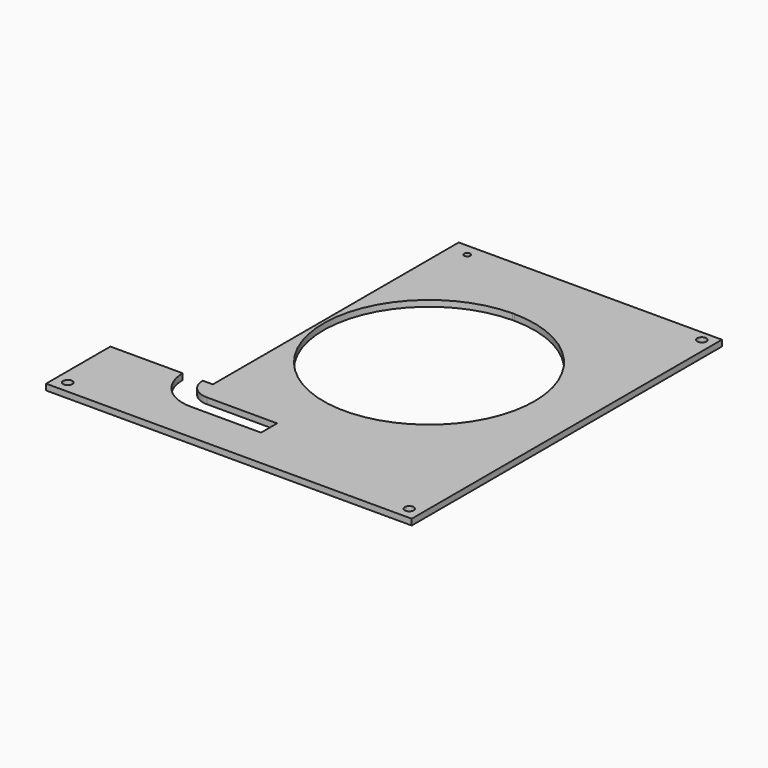
from build123d import *

# Parameters (mm, degrees)
SKETCH259_R          = 2.25
SKETCH259_R_2        = 1.5
PAD029_DEPTH         = 3
POCKET019_DEPTH      = 0.001
POCKET019_DEPTH_BACK = 3.001
POCKET020_DEPTH      = 5


with BuildPart() as part:
    # Sketch259 → Pad029 (new body)
    with BuildSketch(Plane.XY):
        Polygon((91, 90), (-40, 90), (-40, -63), (-91, -63), (-91, -103), (91, -103), align=None)
        with Locations((85, 85)):
            Circle(SKETCH259_R, mode=Mode.SUBTRACT)
        with Locations((85, -97)):
            Circle(SKETCH259_R, mode=Mode.SUBTRACT)
        with Locations((-85, -97)):
            Circle(SKETCH259_R, mode=Mode.SUBTRACT)
        with Locations((-31, 84)):
            Circle(SKETCH259_R_2, mode=Mode.SUBTRACT)
    extrude(amount=PAD029_DEPTH)

    # Sketch258 → Pocket019 (cut, two sides)
    with BuildSketch(Plane.XY) as pocket019_sk:
        with BuildLine():
            ThreePointArc((13.5, 56.497619), (14, -48.5), (14.5, 56.497619))
            Line((13.5, 56.497619), (14.5, 56.497619))
        make_face()
    extrude(amount=-POCKET019_DEPTH, mode=Mode.SUBTRACT)
    extrude(pocket019_sk.sketch, amount=POCKET019_DEPTH_BACK, mode=Mode.SUBTRACT)

    # Sketch260 → Pocket020 (cut)
    with BuildSketch(Plane.XY.offset(3)):
        with BuildLine():
            ThreePointArc((-55, -63), (-49.142136, -77.142136), (-35, -83))
            Line((0, -83), (-35, -83))
            Line((0, -73), (0, -83))
            Line((-35, -73), (0, -73))
            ThreePointArc((-45, -63), (-42.071068, -70.071068), (-35, -73))
            Line((-55, -63), (-45, -63))
        make_face()
    extrude(amount=-POCKET020_DEPTH, mode=Mode.SUBTRACT)


with BuildPart() as part_1:
    # Body013 placement: moved
    add(part.part.moved(Location((0, 0, 185))))


solid = part_1.part
